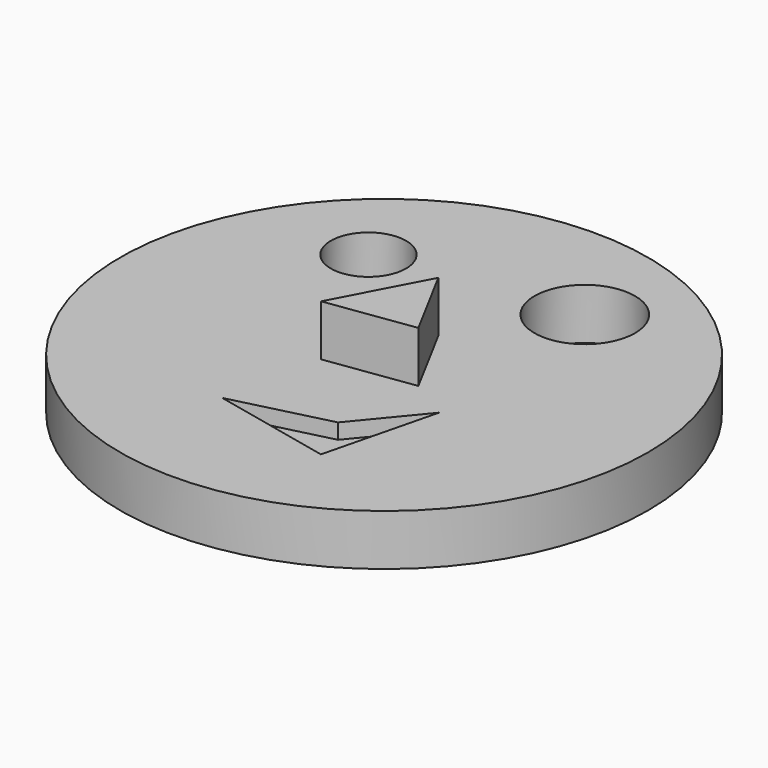
from build123d import *

# Parameters (mm, degrees)
SKETCH_R     = 51.661794
SKETCH_R_2   = 7.362217
SKETCH_R_3   = 9.837508
PAD_DEPTH    = 10
POCKET_DEPTH = 3
PAD001_DEPTH = 10


with BuildPart() as part:
    # Sketch → Pad (new body)
    with BuildSketch(Plane.XY):
        Circle(SKETCH_R)
        with Locations((-22.600981, 24.427324)):
            Circle(SKETCH_R_2, mode=Mode.SUBTRACT)
        with Locations((15.600001, 29.601961)):
            Circle(SKETCH_R_3, mode=Mode.SUBTRACT)
    extrude(amount=PAD_DEPTH)

    # Sketch001 → Pocket (cut)
    with BuildSketch(Plane.XY.offset(10)):
        Polygon((-10.425369, -26.558058), (8.446838, -21.840006), (18.491709, -9.664394), (13.012688, -31.732695), align=None)
    extrude(amount=-POCKET_DEPTH, mode=Mode.SUBTRACT)

    # Sketch002 → Pad001 (new body)
    with BuildSketch(Plane.XY.offset(10)):
        Polygon((-6.599153, -7.156828), (2.509538, 10.131093), (10.50287, -4.740234), align=None)
    extrude(amount=PAD001_DEPTH)


solid = part.part
